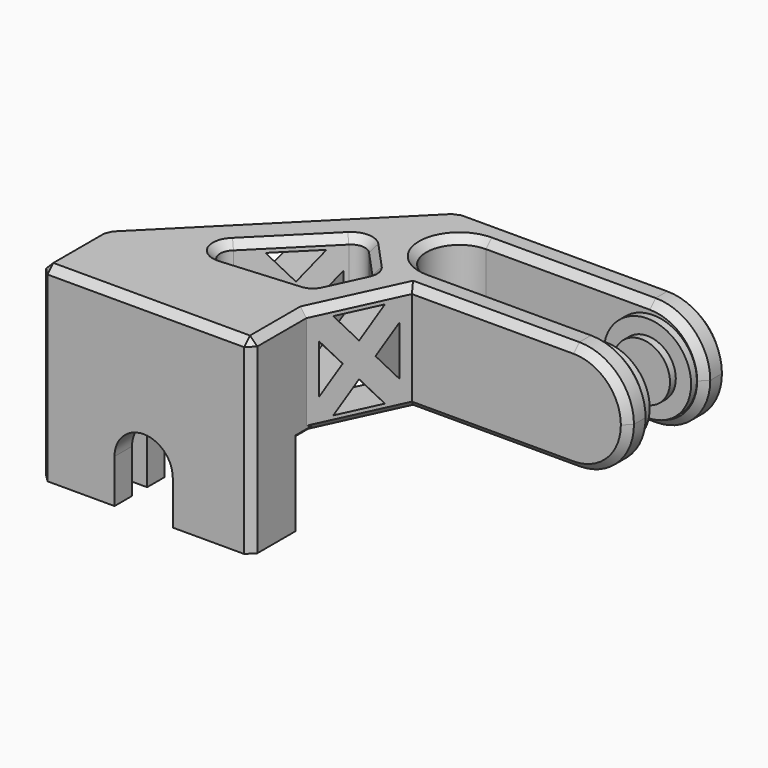
from build123d import *

# Parameters (mm, degrees)
PAD_DEPTH       = 15
SKETCH003_R     = 6
PAD001_DEPTH    = 1
SKETCH005_R     = 3.9
PAD002_DEPTH    = 1
SKETCH004_R     = 6
PAD003_DEPTH    = 1
SKETCH_R        = 3.9
PAD004_DEPTH    = 1
POCKET_DEPTH    = 15.001
SKETCH012_W     = 29
SKETCH012_H     = 8.6
SKETCH012_W_2   = 26
SKETCH012_H_2   = 2.6
PAD005_DEPTH    = 11
SKETCH013_W     = 26
SKETCH013_H     = 2.6
POCKET001_DEPTH = 21.471
PAD006_DEPTH    = 2.6
POCKET002_DEPTH = 38.3479098694
FILLET_R        = 7.499
POCKET003_DEPTH = 8.601
CHAMFER_SIZE    = 1
CHAMFER001_SIZE = 1
CHAMFER002_SIZE = 0.59


with BuildPart() as part:
    # Sketch001 → Pad (new body)
    with BuildSketch(Plane.XY):
        with BuildLine():
            ThreePointArc((34.031969, 3.1), (29.481969, -1.45), (34.031969, -6))
            Line((34.031969, -6), (64.031969, -6))
            Line((64.031969, -6), (64.031969, -10))
            Line((34.3372726559, -10), (64.031969, -10))
            Line((29, -21.4458181471), (34.3372726559, -10))
            Line((29, -30.8675547205), (29, -21.4458181471))
            Line((0, -30.8675547205), (29, -30.8675547205))
            Line((0, -20.178085), (0, -30.8675547205))
            Line((0, -20.178085), (27.278085, 7.1))
            Line((27.278085, 7.1), (64.031969, 7.1))
            Line((64.031969, 7.1), (64.031969, 3.1))
            Line((34.031969, 3.1), (64.031969, 3.1))
        make_face()
    extrude(amount=PAD_DEPTH)

    # Sketch003 → Pad001 (join)
    with BuildSketch(Plane.XZ.offset(-3.1)):
        with Locations((57, 7.5)):
            Circle(SKETCH003_R)
    extrude(amount=PAD001_DEPTH)

    # Sketch005 (on Face16 of Pad001) → Pad002 (join)
    with BuildSketch(Plane.XZ.offset(-2.1)):
        with Locations((57, 7.5)):
            Circle(SKETCH005_R)
    extrude(amount=PAD002_DEPTH)

    # Sketch004 → Pad003 (join)
    with BuildSketch(Plane(origin=(0, -6, 0), x_dir=(-1, 0, 0), z_dir=(0, 1, 0))):
        with Locations((-57, 7.5)):
            Circle(SKETCH004_R)
    extrude(amount=PAD003_DEPTH)

    # Sketch → Pad004 (join)
    with BuildSketch(Plane(origin=(0, -5, 0), x_dir=(-1, 0, 0), z_dir=(0, 1, 0))):
        with Locations((-57, 7.5)):
            Circle(SKETCH_R)
    extrude(amount=PAD004_DEPTH)

    # Sketch008 → Pocket (cut, through all)
    with BuildSketch(Plane.XY):
        with BuildLine():
            ThreePointArc((13.0697507591, -14.0345267419), (12.559643278, -16.2651404862), (14.5155135985, -17.4527509473))
            Line((14.5155135985, -17.4527509473), (25.1710077735, -16.6064336644))
            ThreePointArc((25.1710077735, -16.6064336644), (25.7569811778, -16.3971334306), (26.15789695, -15.9212784504))
            Line((26.15789695, -15.9212784504), (28.5635079634, -10.7624289841))
            ThreePointArc((28.5635079634, -10.7624289841), (28.6753075146, -9.9775618701), (28.3317651199, -9.2630731374))
            Line((28.3317651199, -9.2630731374), (24.7051920017, -5.3153901784))
            ThreePointArc((24.7051920017, -5.3153901784), (23.3062813222, -4.6824374231), (21.8808496163, -5.2531604134))
            Line((13.0697507591, -14.0345267419), (21.8808496163, -5.2531604134))
        make_face()
    extrude(amount=POCKET_DEPTH, mode=Mode.SUBTRACT)

    # Sketch012 (on Face4 of Pocket) → Pad005 (join)
    with BuildSketch(Plane(origin=(0, 0, 0), x_dir=(1, 0, 0), z_dir=(0, 0, -1))):
        with Locations((14.5, 26.5675547205)):
            Rectangle(SKETCH012_W, SKETCH012_H)
        with Locations((14.159, 26.5675547205)):
            Rectangle(SKETCH012_W_2, SKETCH012_H_2, mode=Mode.SUBTRACT)
    extrude(amount=PAD005_DEPTH)

    # Sketch013 (on Face30 of Pad005) → Pocket001 (cut)
    with BuildSketch(Plane(origin=(0, 0, -11), x_dir=(1, 0, 0), z_dir=(0, 0, -1))):
        with Locations((14.159, 26.5675547205)):
            Rectangle(SKETCH013_W, SKETCH013_H)
    extrude(amount=-POCKET001_DEPTH, mode=Mode.SUBTRACT)

    # Sketch014 (on Face36 of Pocket001) → Pad006 (join)
    with BuildSketch(Plane.XZ.offset(25.2675547205)):
        Polygon((27.159, -0.9), (27.159, 10.471), (17.1566665969, 10.471), align=None)
    extrude(amount=PAD006_DEPTH)

    # Sketch015 (on Face15 of Pad006) → Pocket002 (cut, through all)
    with BuildSketch(Plane(origin=(32.0346452503, -14.9380004065, 0), x_dir=(0.4226182617, 0.906307787, 0), z_dir=(0.906307787, -0.4226182617, 0))):
        Polygon((-5.6805823956, 10.8894220066), (-2.8269007902, 7.5), (-5.6805823956, 4.1105779934), align=None)
        Polygon((-3.9568261963, 13.5), (-0.8660508916, 9.828973136), (2.224724413, 13.5), align=None)
        Polygon((3.9484806124, 10.8894220066), (1.0947990069, 7.5), (3.9484806124, 4.1105779934), align=None)
        Polygon((-0.8660508916, 5.171026864), (2.224724413, 1.5), (-3.9568261963, 1.5), align=None)
    extrude(amount=-POCKET002_DEPTH, mode=Mode.SUBTRACT)

    # Fillet
    fillet_edges = [part.edges().sort_by_distance(p)[0] for p in [
        (64.031969, -8, 15),
        (64.031969, -8, 0),
        (64.031969, 5.1, 0),
        (64.031969, 5.1, 15),
    ]]
    fillet(fillet_edges, radius=FILLET_R)

    # Sketch016 (on Face15 of Fillet) → Pocket003 (cut, through all)
    with BuildSketch(Plane(origin=(0, -22.2675547205, 0), x_dir=(-1, 0, 0), z_dir=(0, 1, 0))):
        with BuildLine():
            Line((-10.199, -11), (-10.199, -5))
            ThreePointArc((-10.199, -5), (-14.199, -1.0000000634), (-18.199, -5))
            Line((-18.199, -11), (-18.199, -5))
            Line((-10.199, -11), (-18.199, -11))
        make_face()
    extrude(amount=-POCKET003_DEPTH, mode=Mode.SUBTRACT)

    # Chamfer
    chamfer_edges = [part.edges().sort_by_distance(p)[0] for p in [
        (17.4753, -9.643844, 15),
        (26.518479, -7.289232, 0),
    ]]
    chamfer(chamfer_edges, length=CHAMFER_SIZE)

    # Chamfer001
    chamfer001_edges = [part.edges().sort_by_distance(p)[0] for p in [
        (13.639043, -6.539043, 0),
        (41.905527, 7.1, 0),
        (45.435121, -10, 0),
        (45.435121, -10, 15),
        (29.481969, -1.45, 0),
        (29.481969, -1.45, 15),
        (41.905527, 7.1, 15),
        (13.639043, -6.539043, 15),
        (27.278085, 7.1, 7.5),
        (0, -20.178085, 7.5),
        (31.668636, -15.722909, 15),
        (29, -26.156686, 15),
        (0, -25.52282, 15),
        (14.5, -30.867555, 15),
        (29, -30.867555, 7.5),
        (0, -30.867555, 7.5),
        (29, -22.267555, -5.5),
        (29, -30.867555, -5.5),
        (31.668636, -15.722909, 0),
    ]]
    chamfer(chamfer001_edges, length=CHAMFER001_SIZE)

    # Chamfer002
    chamfer002_edges = [part.edges().sort_by_distance(p)[0] for p in [
        (29, -21.856686, 0),
    ]]
    chamfer(chamfer002_edges, length=CHAMFER002_SIZE)


solid = part.part
